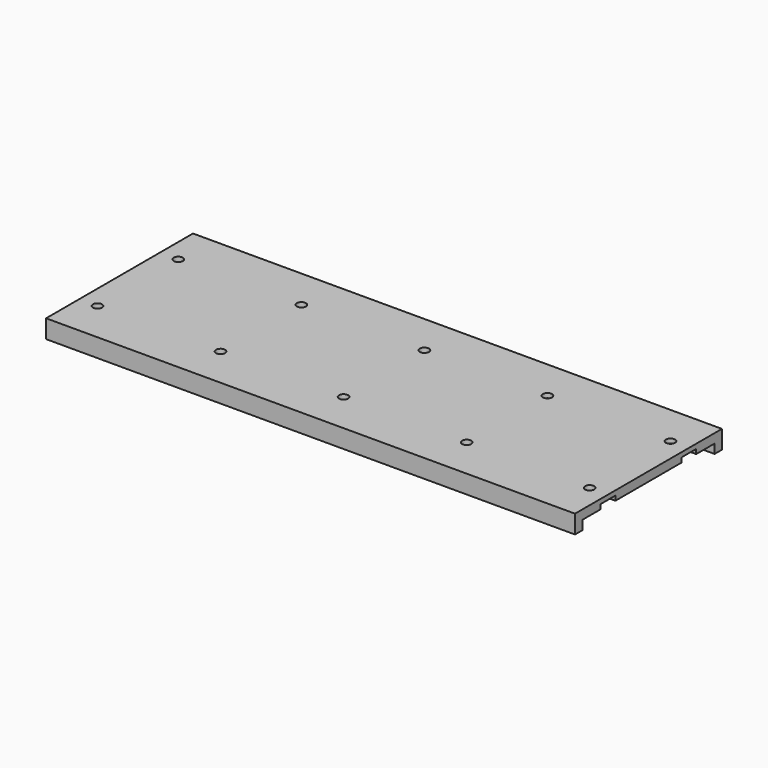
from build123d import *

# Parameters (mm, degrees)
F1_DEPTH = 365.76
F2_R     = 6.35
F3_DEPTH = 12.7


with BuildPart() as f1:
    # F0 (on Right) → F1 (new body, symmetric)
    with BuildSketch(Plane.YZ):
        Polygon((127, 6.35), (57.15, 6.35), (-57.15, 6.35), (-127, 6.35), (-127, -19.05), (-114.3, -19.05), (-114.3, -6.35), (-82.55, -6.35), (-82.55, 0), (-57.15, 0), (-57.15, -6.35), (57.15, -6.35), (57.15, 0), (82.55, 0), (82.55, -6.35), (114.3, -6.35), (114.3, -19.05), (127, -19.05), align=None)
    extrude(amount=F1_DEPTH, both=True)

    # F2 (on face) → F3 (cut)
    with BuildSketch(Plane.XY.offset(6.35)):
        with Locations((0, -69.85)):
            Circle(F2_R)
        with Locations((170.18, -69.85)):
            Circle(F2_R)
        with Locations((340.36, -69.85)):
            Circle(F2_R)
        with Locations((-170.18, -69.85)):
            Circle(F2_R)
        with Locations((-340.36, -69.85)):
            Circle(F2_R)
        with Locations((-340.36, 69.85)):
            Circle(F2_R)
        with Locations((-170.18, 69.85)):
            Circle(F2_R)
        with Locations((0, 69.85)):
            Circle(F2_R)
        with Locations((170.18, 69.85)):
            Circle(F2_R)
        with Locations((340.36, 69.85)):
            Circle(F2_R)
    extrude(amount=-F3_DEPTH, mode=Mode.SUBTRACT)


solid = f1.part
